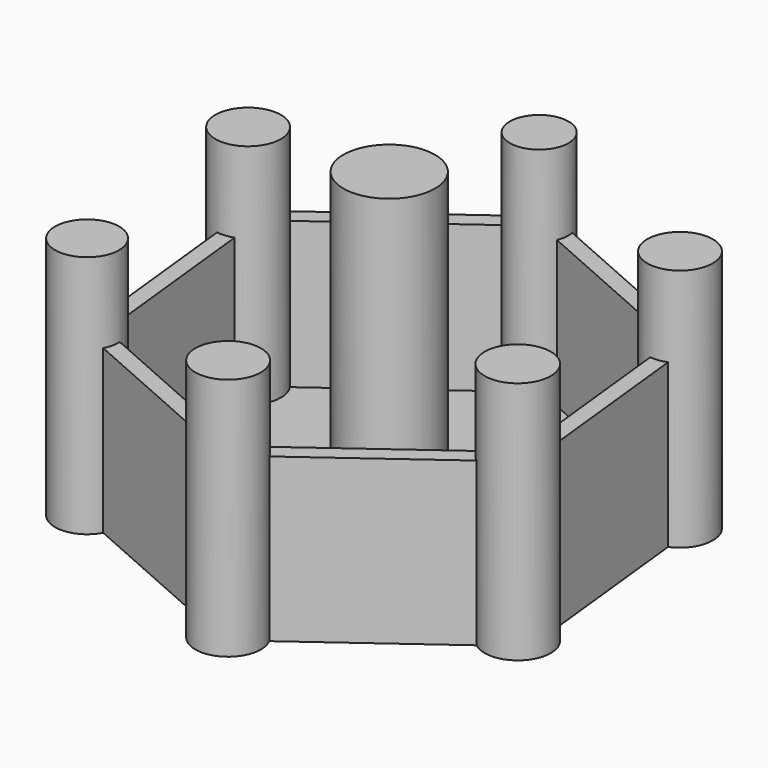
from build123d import *

# Parameters (mm, degrees)
F1_DEPTH  = 25.4
F2_T      = -2.54
F3_R      = 7.158021
F4_DEPTH  = 48.006
F5_R      = 5.120682
F11_DEPTH = 38.1
F10_R     = 5.120996
F12_DEPTH = 38.1
F9_R      = 5.158628
F13_DEPTH = 38.1
F7_R      = 5.120684
F14_DEPTH = 38.1
F6_R      = 5.005345
F15_DEPTH = 38.1
F8_R      = 4.585724
F16_DEPTH = 38.1


with BuildPart() as f1:
    # F0 (on Top) → F1 (new body)
    with BuildSketch(Plane.XY):
        Polygon((4.030147, -37.202981), (34.2338, -15.111281), (30.203654, 22.0917), (-4.030147, 37.202981), (-34.2338, 15.111281), (-30.203654, -22.0917), align=None)
    extrude(amount=F1_DEPTH)

    # F2
    f2_openings = [f1.faces().sort_by_distance(p)[0] for p in [
        (0, 0, 25.4),
    ]]
    offset(amount=F2_T, openings=f2_openings)

    # F3 (on Top) → F4 (join)
    with BuildSketch(Plane.XY):
        Circle(F3_R)
    extrude(amount=F4_DEPTH)

    # F5 (on Top) → F11 (join)
    with BuildSketch(Plane.XY):
        with Locations((28.946722, 20.595593)):
            Circle(F5_R)
    extrude(amount=F11_DEPTH)

    # F10 (on Top) → F12 (join)
    with BuildSketch(Plane.XY):
        with Locations((3.907301, -36.333404)):
            Circle(F10_R)
    extrude(amount=F12_DEPTH)

    # F9 (on Top) → F13 (join)
    with BuildSketch(Plane.XY):
        with Locations((32.073971, -14.988269)):
            Circle(F9_R)
    extrude(amount=F13_DEPTH)

    # F7 (on Top) → F14 (join)
    with BuildSketch(Plane.XY):
        with Locations((-32.698333, 13.326479)):
            Circle(F7_R)
    extrude(amount=F14_DEPTH)

    # F6 (on Top) → F15 (join)
    with BuildSketch(Plane.XY):
        with Locations((-29.656565, -21.907367)):
            Circle(F6_R)
    extrude(amount=F15_DEPTH)

    # F8 (on Top) → F16 (join)
    with BuildSketch(Plane.XY):
        with Locations((-4.096689, 34.406971)):
            Circle(F8_R)
    extrude(amount=F16_DEPTH)


solid = f1.part
